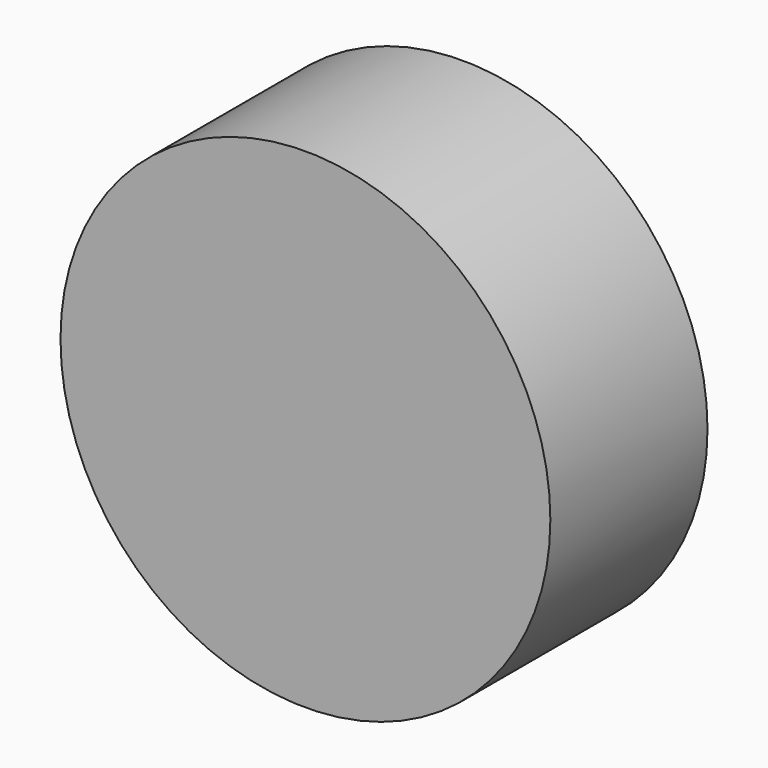
from build123d import *

# Parameters (mm, degrees)
F0_R     = 31.17323
F1_DEPTH = 25


with BuildPart() as f1:
    # F0 (on Front) → F1 (new body)
    with BuildSketch(Plane.XZ):
        with Locations((-4.5e-05, 0.492185)):
            Circle(F0_R)
    extrude(amount=F1_DEPTH)


solid = f1.part
